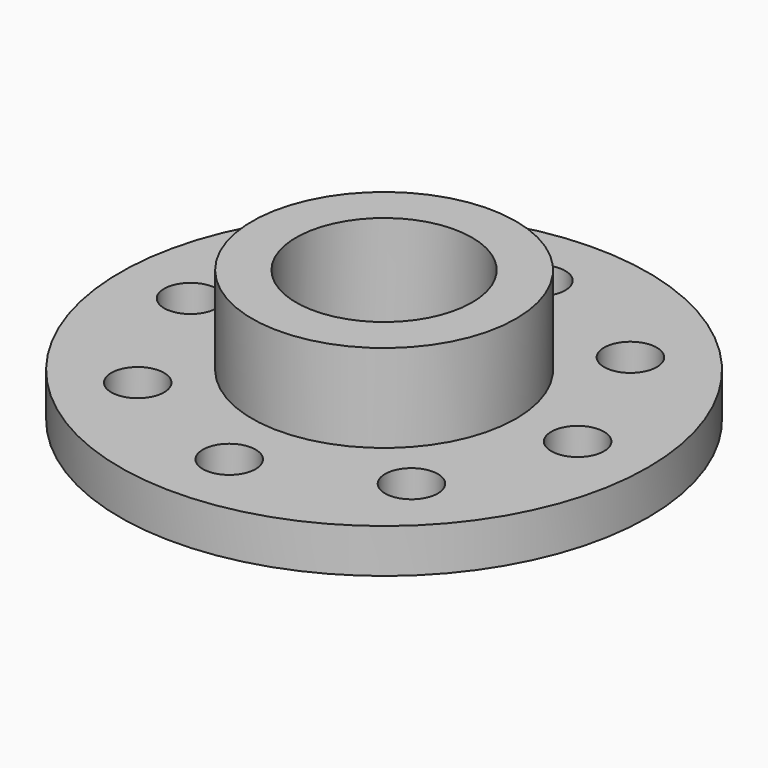
from build123d import *

# Parameters (mm, degrees)
CYLINDER003_R     = 3
CYLINDER003_DEPTH = 10
ARRAY001_COUNT    = 8
CYLINDER002_R     = 10
CYLINDER002_DEPTH = 30
CYLINDER001_R     = 15
CYLINDER001_DEPTH = 15
CYLINDER_R        = 30
CYLINDER_DEPTH    = 5


with BuildPart() as array001:
    # Cylinder003 → Cylinder003 (new body)
    with BuildSketch(Plane(origin=(22, 0, -3), x_dir=(1, 0, 0), z_dir=(0, 0, 1))):
        Circle(CYLINDER003_R)
    extrude(amount=CYLINDER003_DEPTH)

    # Array001: Array001 ×8 about axis
    array001_axis = Axis((0, 0, 0), (0, 0, 1))


with BuildPart() as array001_1:
    add(array001.part)
    for i in range(1, ARRAY001_COUNT):
        add(array001.part.rotate(array001_axis, i * 360 / ARRAY001_COUNT))


with BuildPart() as cilindre002:
    # Cylinder002 → Cylinder002 (new body)
    with BuildSketch(Plane.XY.offset(-4)):
        Circle(CYLINDER002_R)
    extrude(amount=CYLINDER002_DEPTH)


with BuildPart() as cilindre001:
    # Cylinder001 → Cylinder001 (new body)
    with BuildSketch(Plane.XY):
        Circle(CYLINDER001_R)
    extrude(amount=CYLINDER001_DEPTH)


with BuildPart() as cut001:
    # Cylinder → Cylinder (new body)
    with BuildSketch(Plane.XY):
        Circle(CYLINDER_R)
    extrude(amount=CYLINDER_DEPTH)

    # Fusion: union Cilindre001
    add(cilindre001.part)

    # Cut: cut Cilindre002
    add(cilindre002.part, mode=Mode.SUBTRACT)

    # Cut001: cut Array001
    add(array001_1.part, mode=Mode.SUBTRACT)


solid = cut001.part
